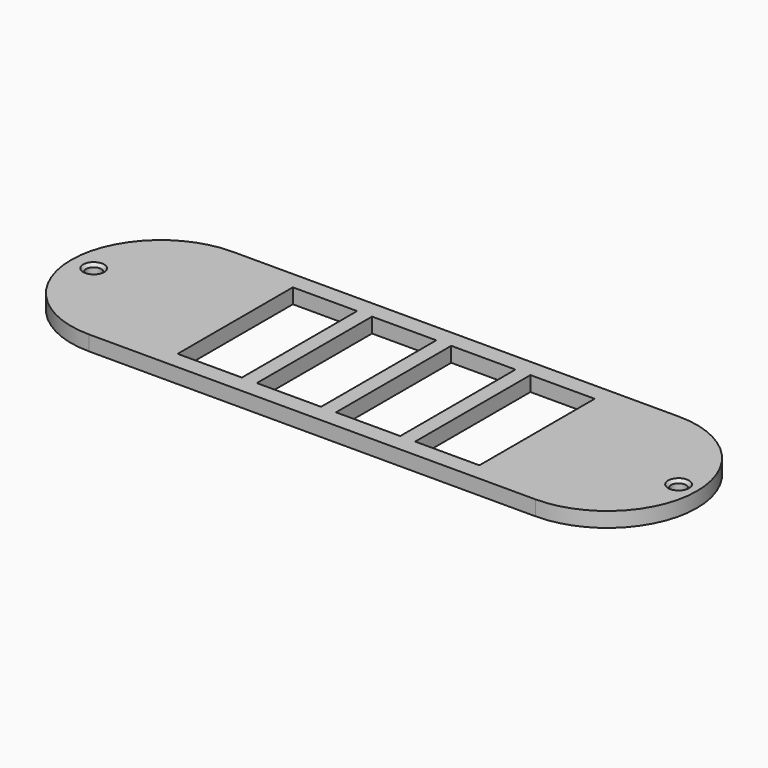
from build123d import *

# Parameters (mm, degrees)
F0_R     = 2.5
F0_W     = 21.5
F0_H     = 48.2
F1_DEPTH = 5
F2_SIZE  = 1
F3_SIZE  = 1


with BuildPart() as f1:
    # F0 (on Top) → F1 (new body)
    with BuildSketch(Plane.XY):
        with BuildLine():
            Line((74.005723, 30), (-75.4411, 30))
            ThreePointArc((-75.4411, 30), (-105.4411, 0), (-75.4411, -30))
            Line((-75.4411, -30), (74.005723, -30))
            ThreePointArc((74.005723, -30), (104.005723, 0), (74.005723, 30))
        make_face()
        with Locations((-97.871438, 0)):
            Circle(F0_R, mode=Mode.SUBTRACT)
        with Locations((-39.75, 0)):
            Rectangle(F0_W, F0_H, mode=Mode.SUBTRACT)
        with Locations((-13.25, 0)):
            Rectangle(F0_W, F0_H, mode=Mode.SUBTRACT)
        with Locations((13.25, 0)):
            Rectangle(F0_W, F0_H, mode=Mode.SUBTRACT)
        with Locations((39.75, 0)):
            Rectangle(F0_W, F0_H, mode=Mode.SUBTRACT)
        with Locations((97.871438, 0)):
            Circle(F0_R, mode=Mode.SUBTRACT)
    extrude(amount=F1_DEPTH)

    # F2
    f2_edges = [f1.edges().sort_by_distance(p)[0] for p in [
        (-100.371438, 0, 5),
    ]]
    chamfer(f2_edges, length=F2_SIZE)

    # F3
    f3_edges = [f1.edges().sort_by_distance(p)[0] for p in [
        (95.371438, 0, 5),
    ]]
    chamfer(f3_edges, length=F3_SIZE)


solid = f1.part
